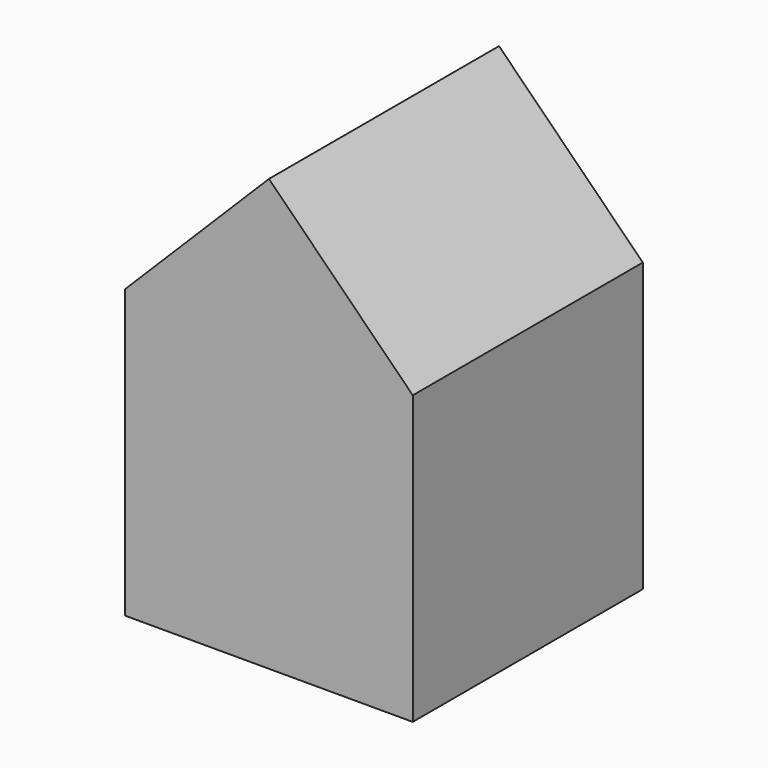
from build123d import *

# Parameters (mm, degrees)
F0_W     = 15
F0_H     = 15
F1_DEPTH = 15
F3_DEPTH = 15


with BuildPart() as f1:
    # F0 (on Top) → F1 (new body)
    with BuildSketch(Plane.XY):
        with Locations((7.5, -7.5)):
            Rectangle(F0_W, F0_H)
    extrude(amount=F1_DEPTH)

    # F2 (on face) → F3 (join)
    with BuildSketch(Plane.XZ.offset(15)):
        Polygon((7.5, 22.5), (0, 15), (15, 15), align=None)
    extrude(amount=-F3_DEPTH)


solid = f1.part
